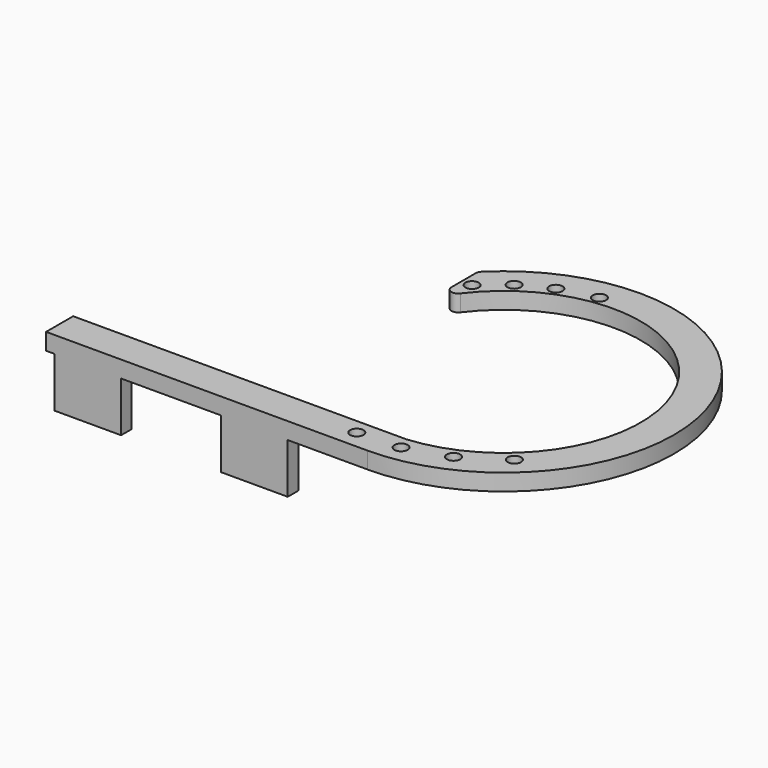
from build123d import *

# Parameters (mm, degrees)
F1_DEPTH = 5
F2_R     = 2
F3_R     = 2
F4_DEPTH = 5
F5_W     = 20
F5_H     = 4
F6_DEPTH = 20


with BuildPart() as f1:
    # F0 (on Top) → F1 (new body)
    with BuildSketch(Plane.XY):
        with BuildLine():
            ThreePointArc((-40, 70.154987), (30.639398, 73.914586), (0, 10.154987))
            Line((0, 10.154987), (-100, 10.154987))
            Line((-100, 10.154987), (-100, 0))
            Line((-100, 0), (-3.517851, 0))
            ThreePointArc((-3.517851, 0), (43.563989, 70.884062), (-40, 86.956077))
            Line((-40, 86.956077), (-40, 70.154987))
        make_face()
    extrude(amount=F1_DEPTH)

    # F2
    f2_edges = [f1.edges().sort_by_distance(p)[0] for p in [
        (-40, 70.154987, 2.5),
        (-40, 86.956077, 2.5),
    ]]
    fillet(f2_edges, radius=F2_R)

    # F3 (on face) → F4 (cut)
    with BuildSketch(Plane.XY.offset(5)):
        with Locations((-36.878993, 80.881587)):
            Circle(F3_R)
        with Locations((-20.412356, 91.712579)):
            Circle(F3_R)
        with Locations((-9.581419, 94.495535)):
            Circle(F3_R)
        with Locations((-29.287707, 87.124474)):
            Circle(F3_R)
        with Locations((-11.243654, 5.575917)):
            Circle(F3_R)
        with Locations((14.160543, 10.102125)):
            Circle(F3_R)
        with Locations((26.199445, 17.886208)):
            Circle(F3_R)
        with Locations((1.5747, 6.171187)):
            Circle(F3_R)
    extrude(amount=-F4_DEPTH, mode=Mode.SUBTRACT)

    # F5 (on face) → F6 (join)
    with BuildSketch(Plane.XY.offset(5)):
        with Locations((-37.5, 2)):
            Rectangle(F5_W, F5_H)
        with Locations((-87.5, 2)):
            Rectangle(F5_W, F5_H)
    extrude(amount=-F6_DEPTH)


solid = f1.part
